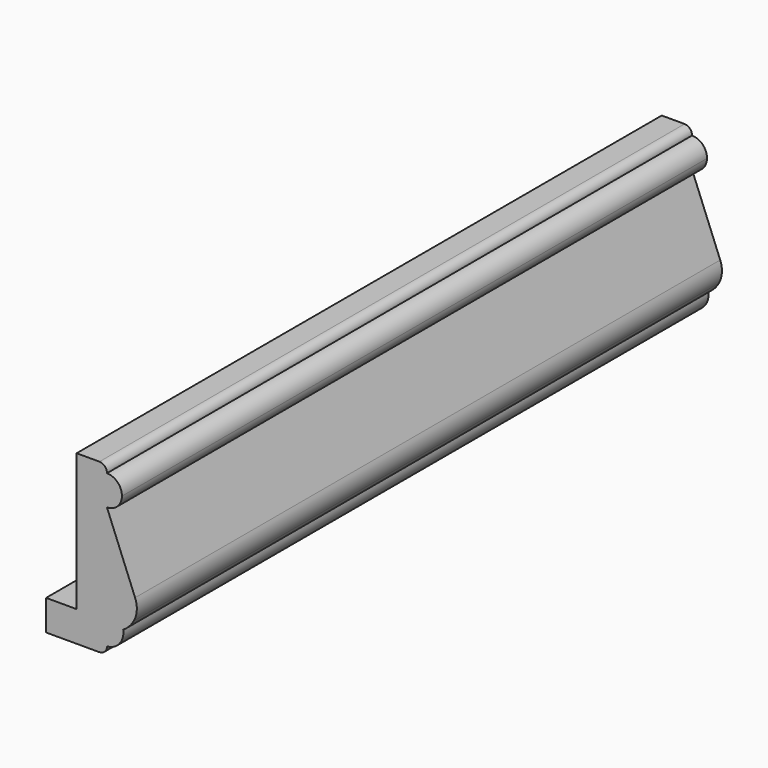
from build123d import *

# Parameters (mm, degrees)
F1_DEPTH = 152.4
F2_R     = 5.08


with BuildPart() as f1:
    # F0 (on Front) → F1 (new body)
    with BuildSketch(Plane.XZ):
        with BuildLine():
            Line((-9.537221, -24.241146), (1.565489, -24.241146))
            Line((1.565489, -24.241146), (1.56726, -24.209019))
            ThreePointArc((1.56726, -24.209019), (2.697703, -23.759048), (3.168511, -22.637123))
            ThreePointArc((3.168511, -22.637123), (5.764587, -21.304554), (6.538678, -18.490993))
            ThreePointArc((6.538678, -18.490993), (8.729447, -16.190785), (9.526789, -13.11594))
            Line((9.526789, -13.11594), (3.176628, 2.764589))
            Line((3.176628, 2.764589), (3.142439, 2.839835))
            ThreePointArc((3.142439, 2.839835), (5.337396, 3.740061), (6.268152, 5.922246))
            ThreePointArc((6.268152, 5.922246), (5.368231, 8.160809), (3.142439, 9.09187))
            ThreePointArc((3.142439, 9.09187), (2.703335, 10.226903), (1.586881, 10.711301))
            Line((1.586881, 10.711301), (-3.176984, 10.711301))
            Line((-3.176984, 10.711301), (-3.176984, -17.886454))
            Line((-3.176984, -17.886454), (-9.537221, -17.886454))
            Line((-9.537221, -17.886454), (-9.537221, -24.241146))
        make_face()
    extrude(amount=F1_DEPTH)

    # F2
    f2_edges = [f1.edges().sort_by_distance(p)[0] for p in [
        (9.526789, -76.2, -13.11594),
    ]]
    fillet(f2_edges, radius=F2_R)


solid = f1.part
